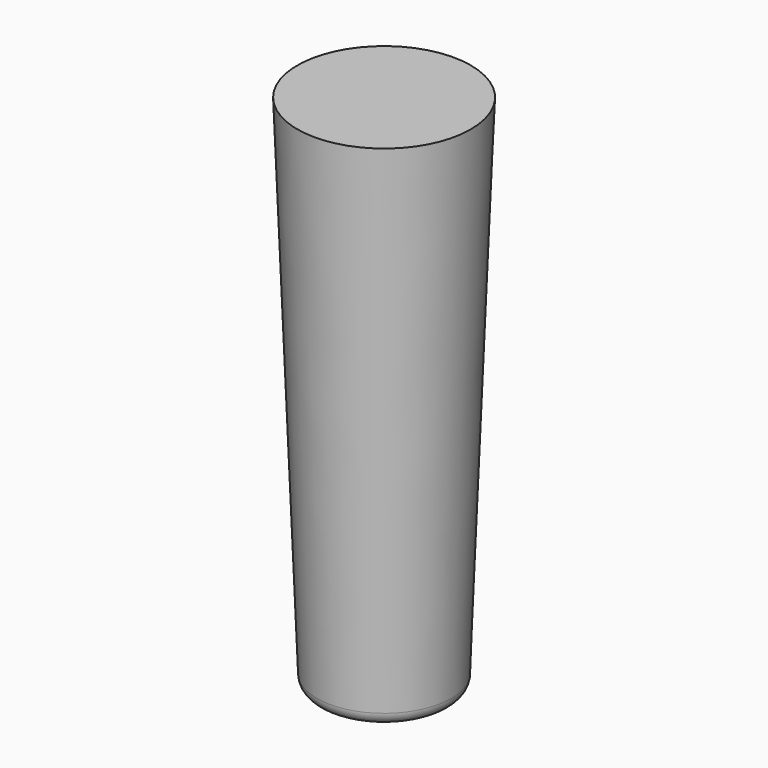
from build123d import *

# Parameters (mm, degrees)
F0_R = 25
F2_R = 32.5
F4_R = 5


with BuildPart() as f3:
    # F0 (on Top) → F3 section 0
    with BuildSketch(Plane.XY):
        Circle(F0_R)
    # F2 (on offset) → F3 section 1
    with BuildSketch(Plane.XY.offset(195)):
        Circle(F2_R)
    loft()

    # F4
    f4_edges = [f3.edges().sort_by_distance(p)[0] for p in [
        (-25, 0, 0),
    ]]
    fillet(f4_edges, radius=F4_R)


solid = f3.part
